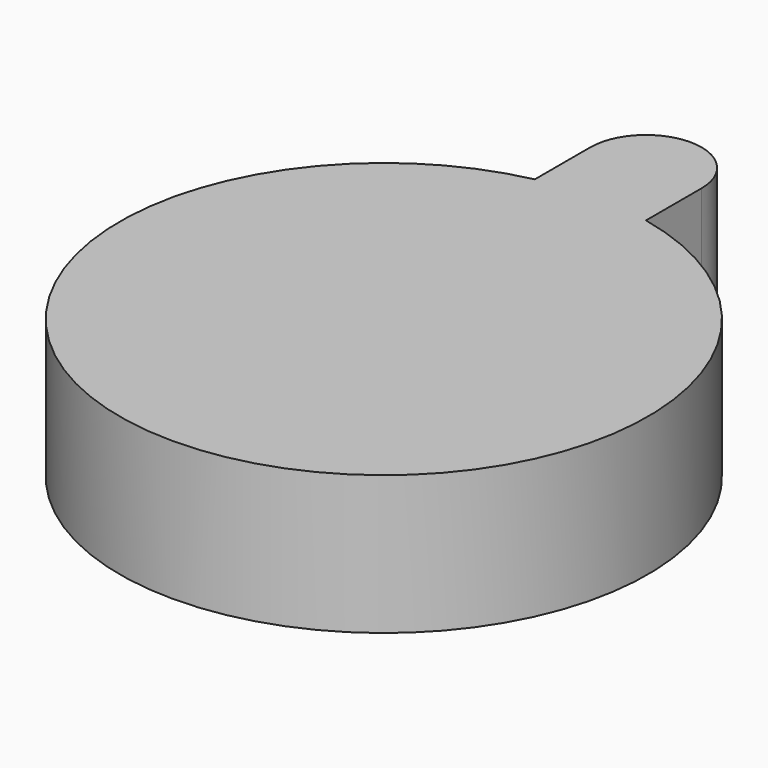
from build123d import *

# Parameters (mm, degrees)
PAD_DEPTH = 5


with BuildPart() as part:
    # Sketch → Pad (new body)
    with BuildSketch(Plane.XY):
        with BuildLine():
            ThreePointArc((-2, 9.287088), (0, -9.5), (2, 9.287088))
            Line((2, 9.287088), (2, 11.787088))
            ThreePointArc((2, 11.787088), (1.414214, 13.201301), (0, 13.787088))
            ThreePointArc((0, 13.787088), (-1.414214, 13.201301), (-2, 11.787088))
            Line((-2, 9.287088), (-2, 11.787088))
        make_face()
    extrude(amount=PAD_DEPTH)


solid = part.part
